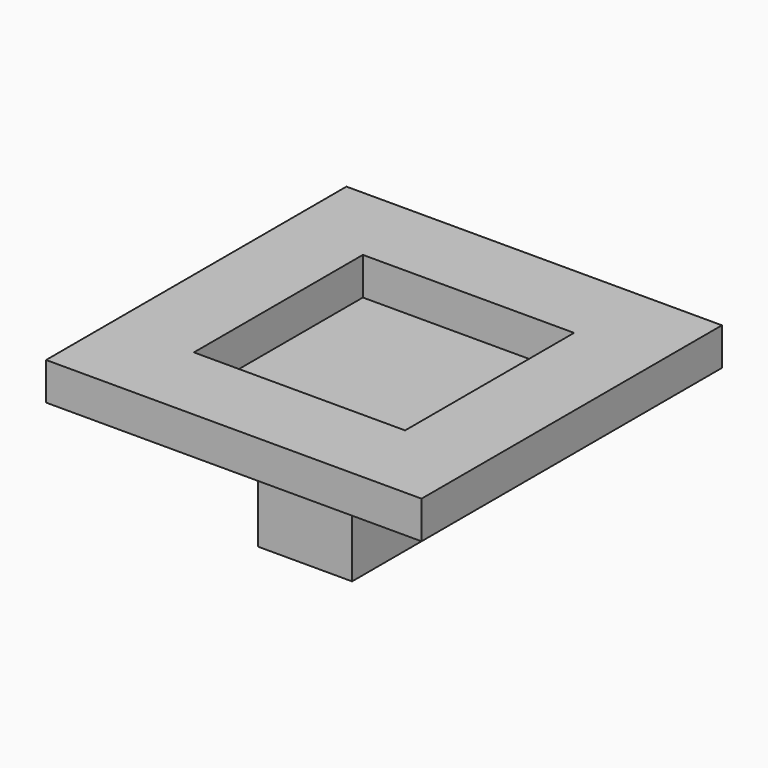
from build123d import *

# Parameters (mm, degrees)
F0_W     = 80
F0_H     = 80
F0_W_2   = 45
F0_H_2   = 45
F1_DEPTH = 8
F2_W     = 20
F2_H     = 42
F3_DEPTH = 25
F4_DEPTH = 2


with BuildPart() as f1:
    # F0 (on Top) → F1 (new body)
    with BuildSketch(Plane.XY):
        Rectangle(F0_W, F0_H)
        Rectangle(F0_W_2, F0_H_2, mode=Mode.SUBTRACT)
    extrude(amount=F1_DEPTH)


with BuildPart() as f3:
    # F2 (on Top) → F3 (new body)
    with BuildSketch(Plane.XY):
        Rectangle(F2_W, F2_H)
    extrude(amount=-F3_DEPTH)


with BuildPart() as f4:
    # F0 (on Top) → F4 (new body)
    with BuildSketch(Plane.XY):
        Rectangle(F0_W_2, F0_H_2)
    extrude(amount=-F4_DEPTH)


solid = Compound([f1.part, f3.part, f4.part])
